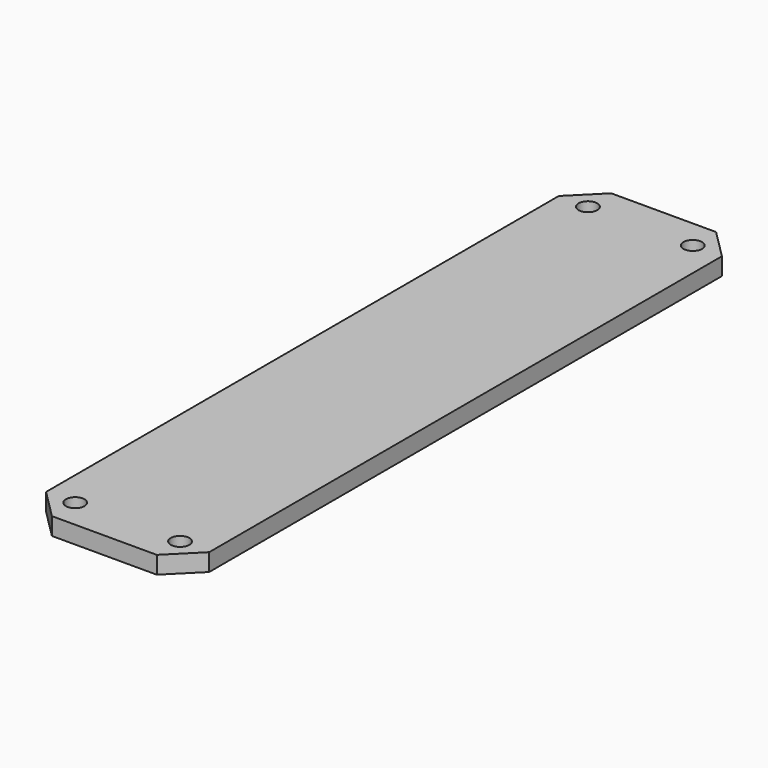
from build123d import *

# Parameters (mm, degrees)
F0_W     = 28
F0_H     = 120
F0_R     = 1.6
F1_DEPTH = 3
F2_SIZE  = 5


with BuildPart() as f1:
    # F0 (on Top) → F1 (new body)
    with BuildSketch(Plane.XY):
        Rectangle(F0_W, F0_H)
        with Locations((-9, -55)):
            Circle(F0_R, mode=Mode.SUBTRACT)
        with Locations((9, -55)):
            Circle(F0_R, mode=Mode.SUBTRACT)
        with Locations((-9, 55)):
            Circle(F0_R, mode=Mode.SUBTRACT)
        with Locations((9, 55)):
            Circle(F0_R, mode=Mode.SUBTRACT)
    extrude(amount=F1_DEPTH)

    # F2
    f2_edges = [f1.edges().sort_by_distance(p)[0] for p in [
        (-14, 60, 1.5),
        (14, 60, 1.5),
        (-14, -60, 1.5),
        (14, -60, 1.5),
    ]]
    chamfer(f2_edges, length=F2_SIZE)


solid = f1.part
